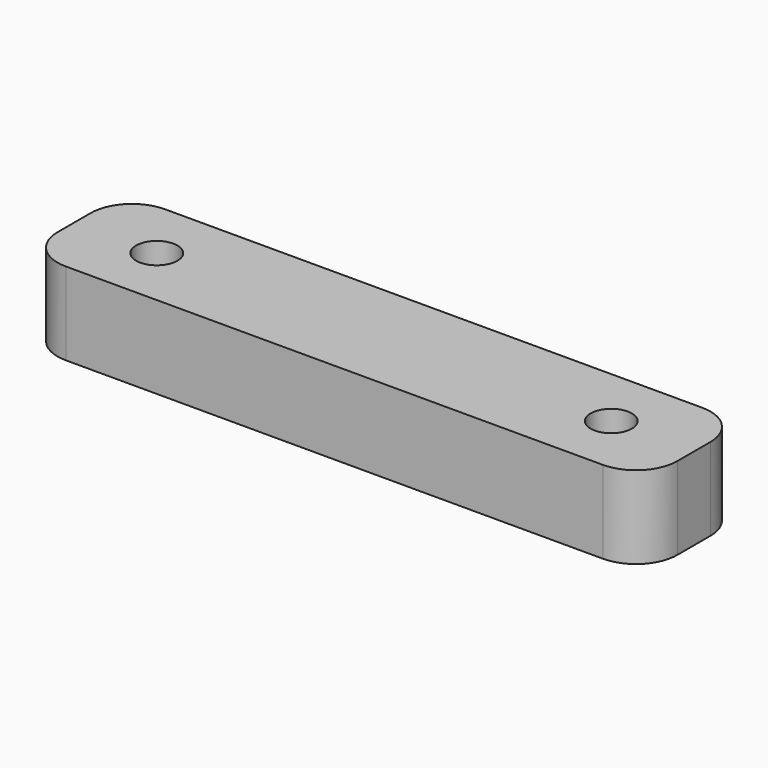
from build123d import *

# Parameters (mm, degrees)
F0_W     = 30
F0_H     = 6
F0_R     = 1
F1_DEPTH = 4
F2_R     = 2


with BuildPart() as f1:
    # F0 (on Top) → F1 (new body)
    with BuildSketch(Plane.XY):
        Rectangle(F0_W, F0_H)
        with Locations((-11, 0)):
            Circle(F0_R, mode=Mode.SUBTRACT)
        with Locations((11, 0)):
            Circle(F0_R, mode=Mode.SUBTRACT)
    extrude(amount=F1_DEPTH)

    # F2
    f2_edges = [f1.edges().sort_by_distance(p)[0] for p in [
        (-15, 3, 2),
        (-15, -3, 2),
        (15, -3, 2),
        (15, 3, 2),
    ]]
    fillet(f2_edges, radius=F2_R)


solid = f1.part
